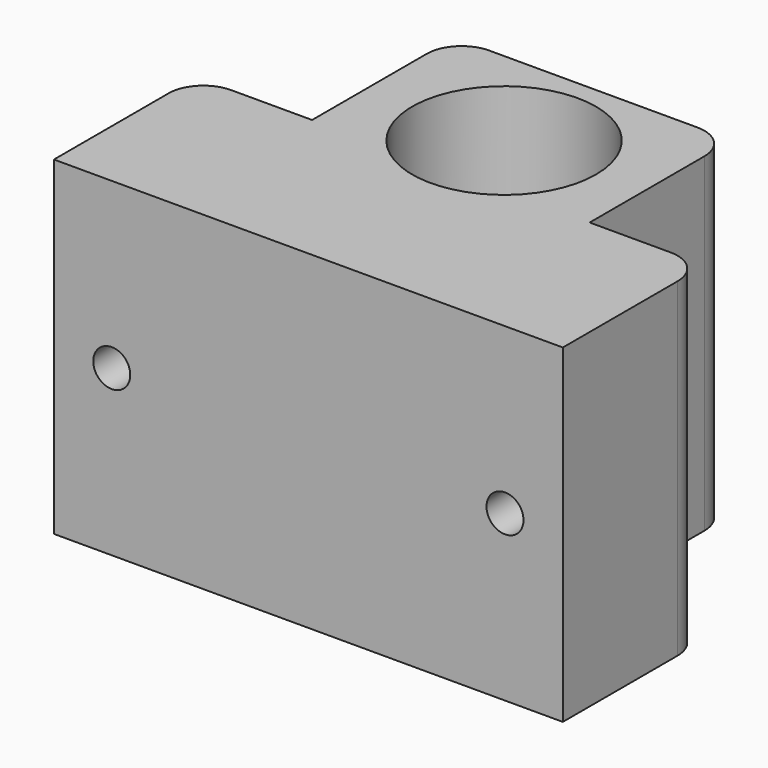
from build123d import *

# Parameters (mm, degrees)
F0_W     = 24
F0_H     = 30.8
F0_R     = 7.95
F1_DEPTH = 28.5
F3_W     = 15.4
F3_H     = 28.5
F4_DEPTH = 10
F2_W     = 15.4
F2_H     = 28.5
F5_DEPTH = 10
F6_R     = 1.6
F7_DEPTH = 30.801
F0_R_2   = 4.75
F8_DEPTH = 1.5
F9_R     = 3


with BuildPart() as f1:
    # F0 (on Top) → F1 (new body)
    with BuildSketch(Plane.XY):
        Rectangle(F0_W, F0_H)
        with Locations((0, 5.75)):
            Circle(F0_R, mode=Mode.SUBTRACT)
    extrude(amount=F1_DEPTH)

    # F3 (on face) → F4 (join)
    with BuildSketch(Plane.YZ.offset(12)):
        with Locations((-7.7, 14.25)):
            Rectangle(F3_W, F3_H)
    extrude(amount=F4_DEPTH)

    # F2 (on face) → F5 (join)
    with BuildSketch(Plane(origin=(-12, 0, 0), x_dir=(0, -1, 0), z_dir=(-1, 0, 0))):
        with Locations((7.7, 14.25)):
            Rectangle(F2_W, F2_H)
    extrude(amount=F5_DEPTH)

    # F6 (on face) → F7 (cut, through all)
    with BuildSketch(Plane(origin=(0, 15.4, 0), x_dir=(-1, 0, 0), z_dir=(0, 1, 0))):
        with Locations((-17, 14.25)):
            Circle(F6_R)
        with Locations((17, 14.25)):
            Circle(F6_R)
    extrude(amount=-F7_DEPTH, mode=Mode.SUBTRACT)

    # F0 (on Top) → F8 (join)
    with BuildSketch(Plane.XY):
        with Locations((0, 5.75)):
            Circle(F0_R)
        with Locations((0, 5.75)):
            Circle(F0_R_2, mode=Mode.SUBTRACT)
    extrude(amount=F8_DEPTH)

    # F9
    f9_edges = [f1.edges().sort_by_distance(p)[0] for p in [
        (12, 15.4, 14.25),
        (22, 0, 14.25),
        (-22, 0, 14.25),
        (-12, 15.4, 14.25),
    ]]
    fillet(f9_edges, radius=F9_R)


solid = f1.part
